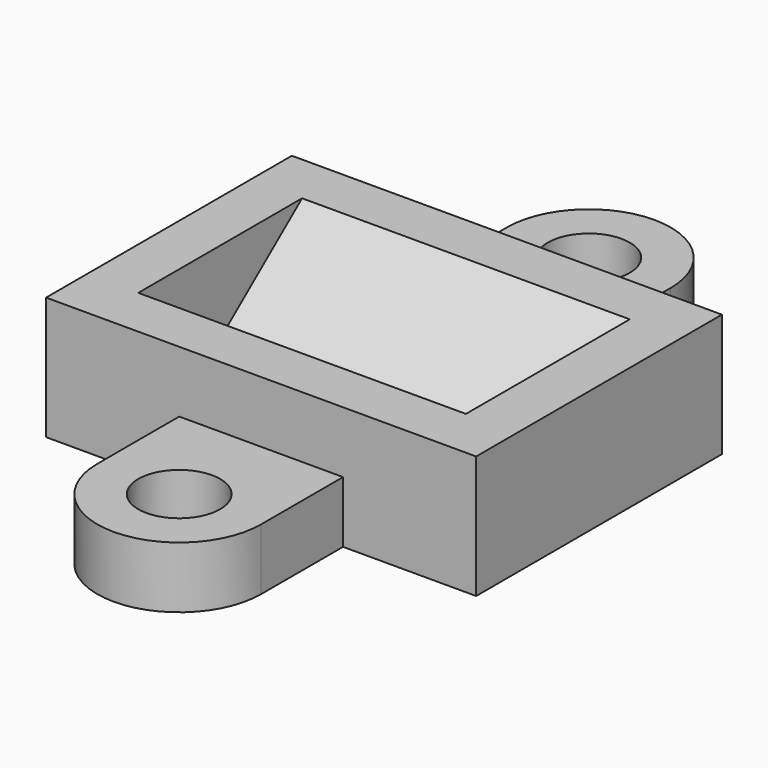
from build123d import *

# Parameters (mm, degrees)
F0_W     = 21
F0_H     = 15
F1_DEPTH = 6
F3_DEPTH = 8
F4_R     = 2
F5_DEPTH = 3


with BuildPart() as f1:
    # F0 (on Top) → F1 (new body)
    with BuildSketch(Plane.XY):
        Rectangle(F0_W, F0_H)
    extrude(amount=F1_DEPTH)

    # F2 (on Right) → F3 (cut, symmetric)
    with BuildSketch(Plane.YZ):
        Polygon((5, 6), (-5, 6), (0, 2), align=None)
    extrude(amount=F3_DEPTH, both=True, mode=Mode.SUBTRACT)

    # F4 (on Top) → F5 (join)
    with BuildSketch(Plane.XY):
        with BuildLine():
            Line((-4, 12.5), (-4, 7.5))
            Line((-4, 7.5), (4, 7.5))
            Line((4, 7.5), (4, 12.5))
            ThreePointArc((4, 12.5), (0, 16.5), (-4, 12.5))
        make_face()
        with Locations((0, 12.5)):
            Circle(F4_R, mode=Mode.SUBTRACT)
        with BuildLine():
            Line((4, -7.5), (-4, -7.5))
            Line((-4, -7.5), (-4, -12.5))
            ThreePointArc((-4, -12.5), (0, -16.5), (4, -12.5))
            Line((4, -12.5), (4, -7.5))
        make_face()
        with Locations((0, -12.5)):
            Circle(F4_R, mode=Mode.SUBTRACT)
    extrude(amount=F5_DEPTH)


solid = f1.part
